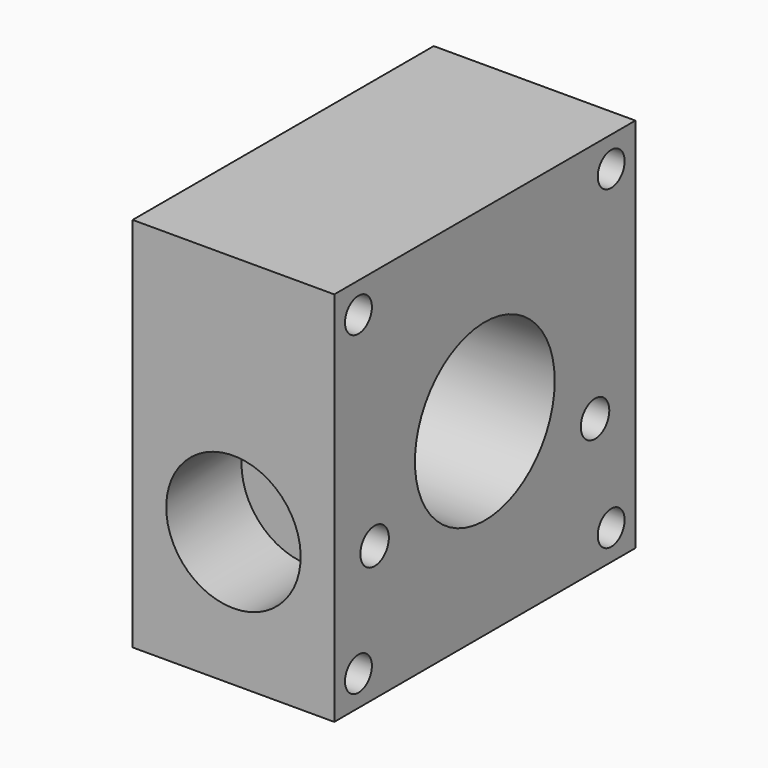
from build123d import *

# Parameters (mm, degrees)
SKETCH031_W     = 56
SKETCH031_H     = 56
SKETCH031_R     = 2.5
SKETCH031_R_2   = 13
PAD027_DEPTH    = 30
SKETCH032_R     = 10
POCKET001_DEPTH = 14
SKETCH034_R     = 2.65
POCKET002_DEPTH = 7
SKETCH035_R     = 10
POCKET003_DEPTH = 14
SKETCH036_R     = 20
POCKET004_DEPTH = 1.6


with BuildPart() as part:
    # Sketch031 → Pad027 (new body)
    with BuildSketch(Plane.YZ):
        Rectangle(SKETCH031_W, SKETCH031_H)
        with Locations((-23.5, 23.5)):
            Circle(SKETCH031_R, mode=Mode.SUBTRACT)
        with Locations((23.5, 23.5)):
            Circle(SKETCH031_R, mode=Mode.SUBTRACT)
        with Locations((23.5, -23.5)):
            Circle(SKETCH031_R, mode=Mode.SUBTRACT)
        with Locations((-23.5, -23.5)):
            Circle(SKETCH031_R, mode=Mode.SUBTRACT)
        Circle(SKETCH031_R_2, mode=Mode.SUBTRACT)
    extrude(amount=PAD027_DEPTH)

    # Sketch032 (on Face4 of Pad027) → Pocket001 (cut)
    with BuildSketch(Plane(origin=(0, -28, 0), x_dir=(0, 0, -1), z_dir=(0, -1, 0))):
        with Locations((8, 15)):
            Circle(SKETCH032_R)
    extrude(amount=-POCKET001_DEPTH, mode=Mode.SUBTRACT)

    # Sketch034 (on Face5 of Pocket001) → Pocket002 (cut)
    with BuildSketch(Plane.YZ.offset(30)):
        with Locations((-20.5, -8)):
            Circle(SKETCH034_R)
        with Locations((20.5, -8)):
            Circle(SKETCH034_R)
    extrude(amount=-POCKET002_DEPTH, mode=Mode.SUBTRACT)

    # Sketch035 (on Face3 of Pocket002) → Pocket003 (cut)
    with BuildSketch(Plane.ZX.offset(28)):
        with Locations((-8, 15)):
            Circle(SKETCH035_R)
    extrude(amount=-POCKET003_DEPTH, mode=Mode.SUBTRACT)

    # Sketch036 (on Face4 of Pocket003) → Pocket004 (cut)
    with BuildSketch(Plane(origin=(0, 0, 0), x_dir=(0, 1, 0), z_dir=(-1, 0, 0))):
        Circle(SKETCH036_R)
    extrude(amount=-POCKET004_DEPTH, mode=Mode.SUBTRACT)


with BuildPart() as part_1:
    # Body018 placement: moved
    add(part.part.moved(Location((-15, 0, 8))))


solid = part_1.part
